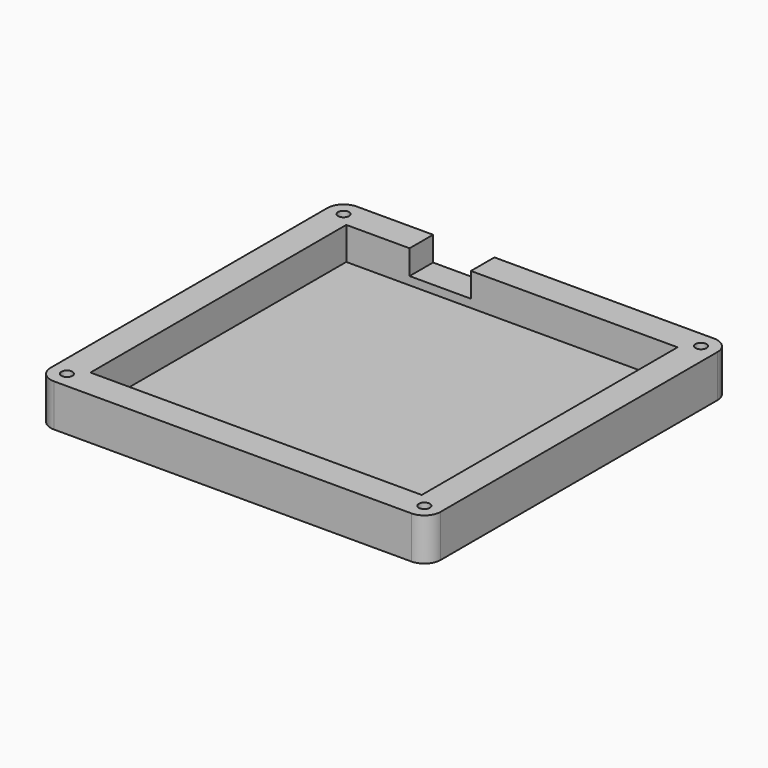
from build123d import *

# Parameters (mm, degrees)
SKETCH_R        = 1.7
PAD_DEPTH       = 13
SKETCH001_W     = 101.56
SKETCH001_H     = 98.03
POCKET_DEPTH    = 10
SKETCH002_R     = 3
POCKET001_DEPTH = 3.1
SKETCH003_W     = 18.8
SKETCH003_H     = 7.5
POCKET002_DEPTH = 11


with BuildPart() as part:
    # Sketch → Pad (new body)
    with BuildSketch(Plane.XY):
        with BuildLine():
            Line((0, -5), (0, -111.03))
            ThreePointArc((0, -111.03), (1.464466, -114.565534), (5, -116.03))
            Line((5, -116.03), (114.56, -116.03))
            ThreePointArc((114.56, -116.03), (118.095534, -114.565534), (119.56, -111.03))
            Line((119.56, -111.03), (119.56, -5))
            ThreePointArc((119.56, -5), (118.095534, -1.464466), (114.56, 0))
            Line((114.56, 0), (5, 0))
            ThreePointArc((5, 0), (1.464466, -1.464466), (0, -5))
        make_face()
        with Locations((5, -5)):
            Circle(SKETCH_R, mode=Mode.SUBTRACT)
        with Locations((114.56, -5)):
            Circle(SKETCH_R, mode=Mode.SUBTRACT)
        with Locations((114.56, -111.03)):
            Circle(SKETCH_R, mode=Mode.SUBTRACT)
        with Locations((5, -111.03)):
            Circle(SKETCH_R, mode=Mode.SUBTRACT)
    extrude(amount=-PAD_DEPTH)

    # Sketch001 → Pocket (cut)
    with BuildSketch(Plane.XY):
        with Locations((59.78, -58.015)):
            Rectangle(SKETCH001_W, SKETCH001_H)
    extrude(amount=-POCKET_DEPTH, mode=Mode.SUBTRACT)

    # Sketch002 (on Face5 of Pocket) → Pocket001 (cut)
    with BuildSketch(Plane(origin=(0, 0, -13), x_dir=(1, 0, 0), z_dir=(0, 0, -1))):
        with Locations((5, 111.03)):
            Circle(SKETCH002_R)
        with Locations((114.56, 111.03)):
            Circle(SKETCH002_R)
        with Locations((5, 5)):
            Circle(SKETCH002_R)
        with Locations((114.56, 5)):
            Circle(SKETCH002_R)
    extrude(amount=-POCKET001_DEPTH, mode=Mode.SUBTRACT)

    # Sketch003 → Pocket002 (cut)
    with BuildSketch(Plane.XZ):
        with Locations((37.81, -3.75)):
            Rectangle(SKETCH003_W, SKETCH003_H)
    extrude(amount=POCKET002_DEPTH, mode=Mode.SUBTRACT)


with BuildPart() as part_1:
    # Body001 placement: moved
    add(part.part.moved(Location((-16.22, 33.17, 0))))


solid = part_1.part
